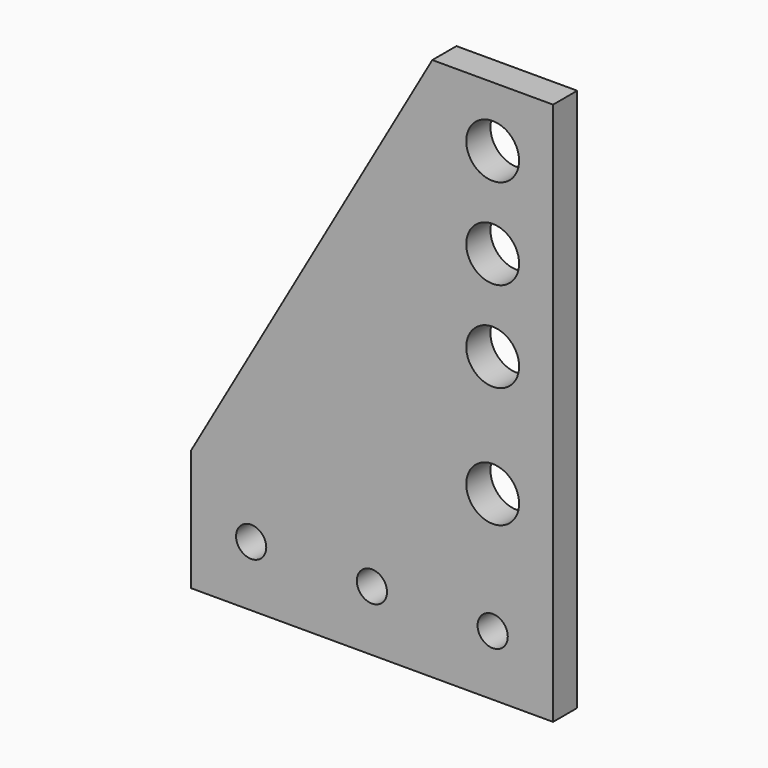
from build123d import *

# Parameters (mm, degrees)
F0_R     = 3.175
F0_R_2   = 5.55625
F1_DEPTH = 6.35


with BuildPart() as f1:
    # F0 (on Front) → F1 (new body)
    with BuildSketch(Plane.XZ):
        Polygon((38.1, -57.15), (38.1, 57.15), (12.7, 57.15), (-38.1, -31.75), (-38.1, -57.15), align=None)
        with Locations((-25.4, -44.45)):
            Circle(F0_R, mode=Mode.SUBTRACT)
        with Locations((0, -44.45)):
            Circle(F0_R, mode=Mode.SUBTRACT)
        with Locations((25.4, -44.45)):
            Circle(F0_R, mode=Mode.SUBTRACT)
        with Locations((25.4, -19.05)):
            Circle(F0_R_2, mode=Mode.SUBTRACT)
        with Locations((25.4, 6.35)):
            Circle(F0_R_2, mode=Mode.SUBTRACT)
        with Locations((25.4, 25.4)):
            Circle(F0_R_2, mode=Mode.SUBTRACT)
        with Locations((25.4, 44.45)):
            Circle(F0_R_2, mode=Mode.SUBTRACT)
    extrude(amount=F1_DEPTH)


solid = f1.part
